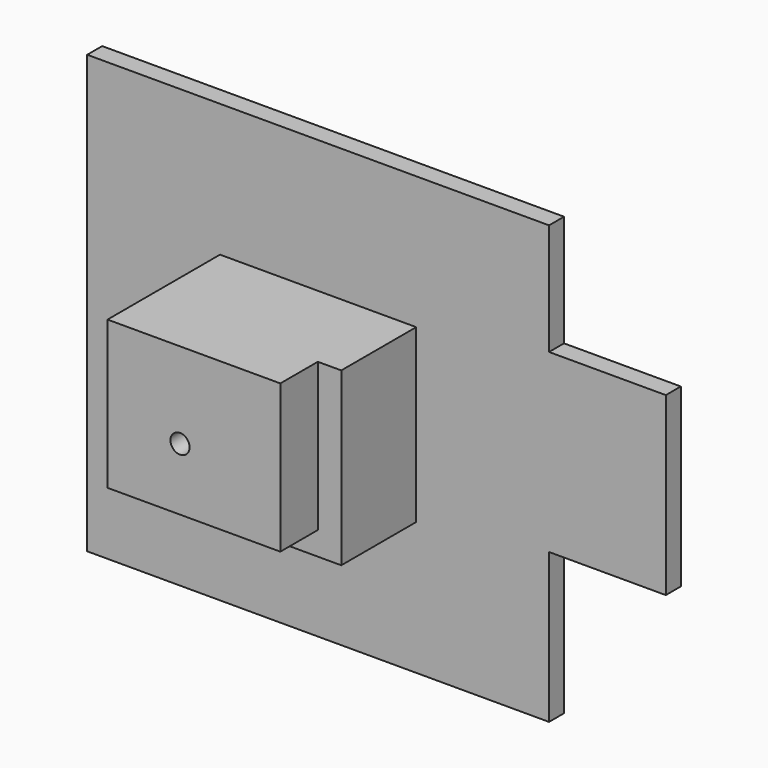
from build123d import *

# Parameters (mm, degrees)
F0_W     = 53.1802996993
F0_H     = 46.4934445918
F0_R     = 2.5936293998
F1_DEPTH = 25.4
F2_W     = 46.8302996993
F2_H     = 40.1434445918
F2_R     = 2.5936293998
F3_DEPTH = 12.7
F4_W     = 31.6434130073
F4_H     = 47.7159637958
F4_W_2   = 96.1484760046
F5_DEPTH = 5.08
F4_W_3   = 7.8468769789
F4_H_2   = 9.7482251003


with BuildPart() as f1:
    # F0 (on Front) → F1 (new body)
    with BuildSketch(Plane.XZ):
        with Locations((6.9469735026, 14.2225120217)):
            Rectangle(F0_W, F0_H)
        with Locations((0, 14.2225120217)):
            Circle(F0_R, mode=Mode.SUBTRACT)
    extrude(amount=F1_DEPTH)

    # F2 (on face) → F3 (join)
    with BuildSketch(Plane.XZ.offset(25.4)):
        with Locations((3.7719735026, 17.3975120217)):
            Rectangle(F2_W, F2_H)
        with Locations((0, 14.2225120217)):
            Circle(F2_R, mode=Mode.SUBTRACT)
    extrude(amount=F3_DEPTH)

    # F4 (on Front) → F5 (join)
    with BuildSketch(Plane.XZ):
        with Locations((85.3468738496, 19.3866211921)):
            Rectangle(F4_W, F4_H)
        Polygon((69.525167346, -45.0122542679), (69.525167346, -4.4713607058), (-26.6233086586, -4.4713607058), (-26.6233086586, 43.24460309), (69.525167346, 43.24460309), (69.525167346, 73.4572783113), (-55.6312203407, 73.4572783113), (-55.6312203407, -45.0122542679), align=None)
        with Locations((21.4509293437, 19.3866211921)):
            Rectangle(F4_W_2, F4_H)
    extrude(amount=-F5_DEPTH)


with BuildPart() as f5:
    # F4 (on Front) → F5, piece 2 (new body)
    with BuildSketch(Plane.XZ):
        with Locations((111.8179112673, 1.5299557708)):
            Rectangle(F4_W_3, F4_H_2)
    extrude(amount=-F5_DEPTH)


solid = f1.part
